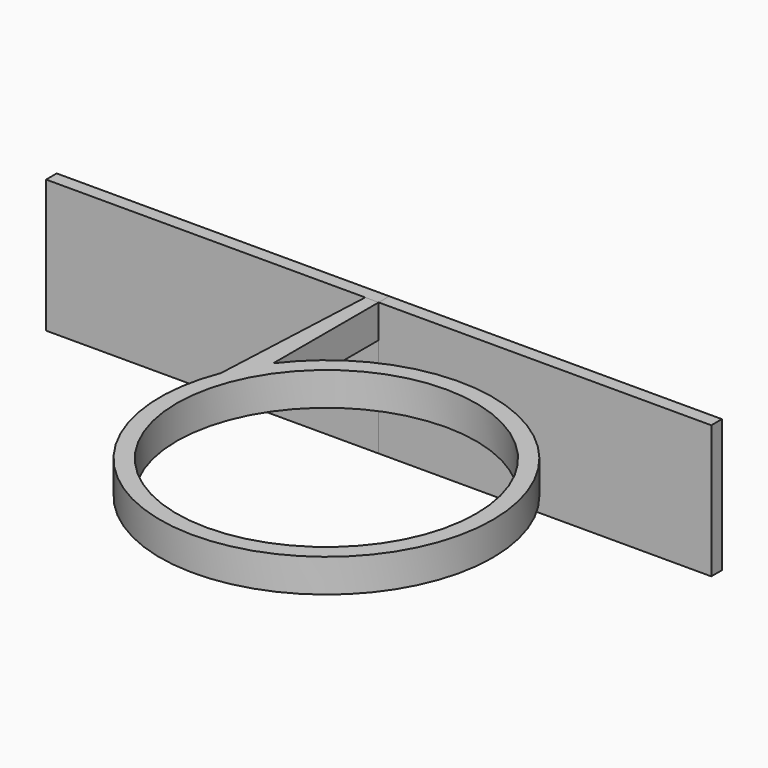
from build123d import *

# Parameters (mm, degrees)
F0_R      = 31.75
F1_DEPTH  = 6.35
F2_R      = 28.575
F3_DEPTH  = 25.4
F6_DEPTH  = 6.35
F8_DEPTH  = 2.54
F9_DEPTH  = 2.54
F10_W     = 63.5
F10_H     = 25.4
F11_DEPTH = 2.54


with BuildPart() as f1:
    # F0 (on Top) → F1 (new body)
    with BuildSketch(Plane.XY):
        Circle(F0_R)
    extrude(amount=F1_DEPTH)

    # F2 (on face) → F3 (cut)
    with BuildSketch(Plane.XY.offset(6.35)):
        Circle(F2_R)
    extrude(amount=-F3_DEPTH, mode=Mode.SUBTRACT)

    # F5 (on face) → F6 (join)
    with BuildSketch(Plane.XY):
        Polygon((-27.9624909163, 44.2176200449), (-29.6212788671, 9.3955891207), (-25.4, 15.2678118412), (-25.4, 44.2176200449), align=None)
    extrude(amount=F6_DEPTH)


with BuildPart() as f8:
    # F7 (on face) → F8 (new body)
    with BuildSketch(Plane(origin=(0, 44.2176200449, 0), x_dir=(-1, 0, 0), z_dir=(0, 1, 0))):
        Polygon((25.4, 0), (25.4, 6.35), (-38.1, 6.35), (-38.1, -19.05), (25.4, -19.05), align=None)
    extrude(amount=F8_DEPTH)


with BuildPart() as f9:
    # F9 (new): a face of the model
    f9_faces = [f1.part.faces().sort_by_distance(p)[0] for p in [
        (-26.6812454581, 44.2176200449, 3.175),
    ]]
    extrude(f9_faces, amount=F9_DEPTH)


with BuildPart() as f11:
    # F10 (on face) → F11 (new body)
    with BuildSketch(Plane(origin=(0, 46.7576200449, 0), x_dir=(-1, 0, 0), z_dir=(0, 1, 0))):
        with Locations((57.15, -6.35)):
            Rectangle(F10_W, F10_H)
    extrude(amount=-F11_DEPTH)


solid = Compound([f1.part, f8.part, f9.part, f11.part])
